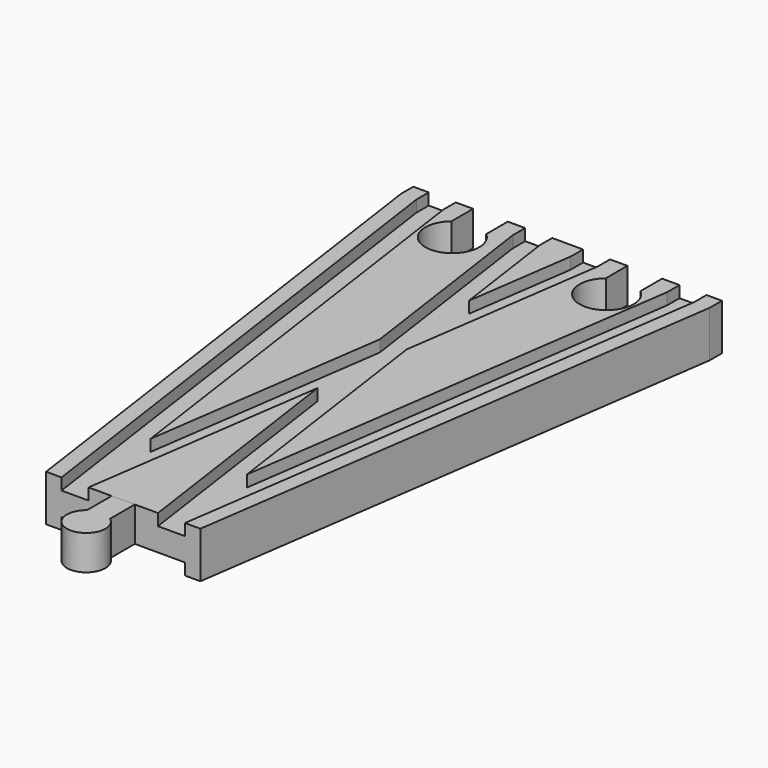
from build123d import *

# Parameters (mm, degrees)
SKETCH004_W          = 32
SKETCH004_H          = 3
SKETCH005_W          = 7
SKETCH005_H          = 3
SKETCH006_W          = 7
SKETCH006_H          = 3
POCKET_DEPTH         = 6.001
POCKET_DEPTH_BACK    = -6.001
POCKET001_DEPTH      = 6.001
POCKET001_DEPTH_BACK = -6.001
PAD_DEPTH            = 6
PAD_DEPTH_BACK       = 3


with BuildPart() as body:
    # AdditivePipe: sweep along a path in Sketch
    with BuildLine(Plane.XY) as additivepipe_path:
        Line((-20, 144), (-20, 140))
        Line((-20, 140), (0, 0))
    # Sketch002 → AdditivePipe (sweep)
    with BuildSketch(Plane.XZ):
        Polygon((-20, 6), (-20, -6), (-16, -6), (-16, -3), (-9, -3), (9, -3), (16, -3), (16, -6), (20, -6), (20, 6), (16, 6), (16, 3), (9, 3), (9, 6), (-9, 6), (-9, 3), (-16, 3), (-16, 6), align=None)
    sweep(path=additivepipe_path.line)

    # AdditivePipe001: sweep along a path in Sketch001
    with BuildLine(Plane.XY) as additivepipe001_path:
        Line((20, 144), (20, 140))
        Line((20, 140), (0, 0))
    # Sketch002 → AdditivePipe001 (sweep)
    with BuildSketch(Plane.XZ):
        Polygon((-20, 6), (-20, -6), (-16, -6), (-16, -3), (-9, -3), (9, -3), (16, -3), (16, -6), (20, -6), (20, 6), (16, 6), (16, 3), (9, 3), (9, 6), (-9, 6), (-9, 3), (-16, 3), (-16, 6), align=None)
    sweep(path=additivepipe001_path.line)

    # SubtractivePipe: sweep along a path in Sketch
    with BuildLine(Plane.XY) as subtractivepipe_path:
        Line((-20, 144), (-20, 140))
        Line((-20, 140), (0, 0))
    # Sketch004 → SubtractivePipe (sweep, cut)
    with BuildSketch(Plane.XZ):
        with Locations((0, -4.5)):
            Rectangle(SKETCH004_W, SKETCH004_H)
    sweep(path=subtractivepipe_path.line, mode=Mode.SUBTRACT)

    # SubtractivePipe001: sweep along a path in Sketch001
    with BuildLine(Plane.XY) as subtractivepipe001_path:
        Line((20, 144), (20, 140))
        Line((20, 140), (0, 0))
    # Sketch004 → SubtractivePipe001 (sweep, cut)
    with BuildSketch(Plane.XZ):
        with Locations((0, -4.5)):
            Rectangle(SKETCH004_W, SKETCH004_H)
    sweep(path=subtractivepipe001_path.line, mode=Mode.SUBTRACT)

    # SubtractivePipe002: sweep along a path in Sketch
    with BuildLine(Plane.XY) as subtractivepipe002_path:
        Line((-20, 144), (-20, 140))
        Line((-20, 140), (0, 0))
    # Sketch005 → SubtractivePipe002 (sweep, cut)
    with BuildSketch(Plane.XZ):
        with Locations((-12.5, 4.5)):
            Rectangle(SKETCH005_W, SKETCH005_H)
    sweep(path=subtractivepipe002_path.line, mode=Mode.SUBTRACT)

    # SubtractivePipe003: sweep along a path in Sketch001
    with BuildLine(Plane.XY) as subtractivepipe003_path:
        Line((20, 144), (20, 140))
        Line((20, 140), (0, 0))
    # Sketch005 → SubtractivePipe003 (sweep, cut)
    with BuildSketch(Plane.XZ):
        with Locations((-12.5, 4.5)):
            Rectangle(SKETCH005_W, SKETCH005_H)
    sweep(path=subtractivepipe003_path.line, mode=Mode.SUBTRACT)

    # SubtractivePipe004: sweep along a path in Sketch
    with BuildLine(Plane.XY) as subtractivepipe004_path:
        Line((-20, 144), (-20, 140))
        Line((-20, 140), (0, 0))
    # Sketch006 → SubtractivePipe004 (sweep, cut)
    with BuildSketch(Plane.XZ):
        with Locations((12.5, 4.5)):
            Rectangle(SKETCH006_W, SKETCH006_H)
    sweep(path=subtractivepipe004_path.line, mode=Mode.SUBTRACT)

    # SubtractivePipe005: sweep along a path in Sketch001
    with BuildLine(Plane.XY) as subtractivepipe005_path:
        Line((20, 144), (20, 140))
        Line((20, 140), (0, 0))
    # Sketch006 → SubtractivePipe005 (sweep, cut)
    with BuildSketch(Plane.XZ):
        with Locations((12.5, 4.5)):
            Rectangle(SKETCH006_W, SKETCH006_H)
    sweep(path=subtractivepipe005_path.line, mode=Mode.SUBTRACT)

    # Sketch007 → Pocket (cut, two sides)
    with BuildSketch(Plane.XY) as pocket_sk:
        with BuildLine():
            Line((-24.5, 144), (-15.5, 144))
            Line((-15.5, 144), (-15.5, 137))
            ThreePointArc((-24.5, 137), (-20, 124.638097), (-15.5, 137))
            Line((-24.5, 144), (-24.5, 137))
        make_face()
    extrude(amount=-POCKET_DEPTH, mode=Mode.SUBTRACT)
    extrude(pocket_sk.sketch, amount=-POCKET_DEPTH_BACK, mode=Mode.SUBTRACT)

    # Sketch008 → Pocket001 (cut, two sides)
    with BuildSketch(Plane.XY) as pocket001_sk:
        with BuildLine():
            Line((15.5, 144), (24.5, 144))
            Line((24.5, 144), (24.5, 137))
            ThreePointArc((15.5, 137), (20, 124.638097), (24.5, 137))
            Line((15.5, 144), (15.5, 137))
        make_face()
    extrude(amount=-POCKET001_DEPTH, mode=Mode.SUBTRACT)
    extrude(pocket001_sk.sketch, amount=-POCKET001_DEPTH_BACK, mode=Mode.SUBTRACT)


with BuildPart() as body001:
    # Sketch009 → Pad (new body, two sides)
    with BuildSketch(Plane.XY) as pad_sk:
        with BuildLine():
            Line((-3, 0), (3, 0))
            Line((3, 0), (3, -8))
            ThreePointArc((-3, -8), (0, -17), (3, -8))
            Line((-3, 0), (-3, -8))
        make_face()
    extrude(amount=PAD_DEPTH)
    extrude(pad_sk.sketch, amount=-PAD_DEPTH_BACK)


solid = Compound([body.part, body001.part])
